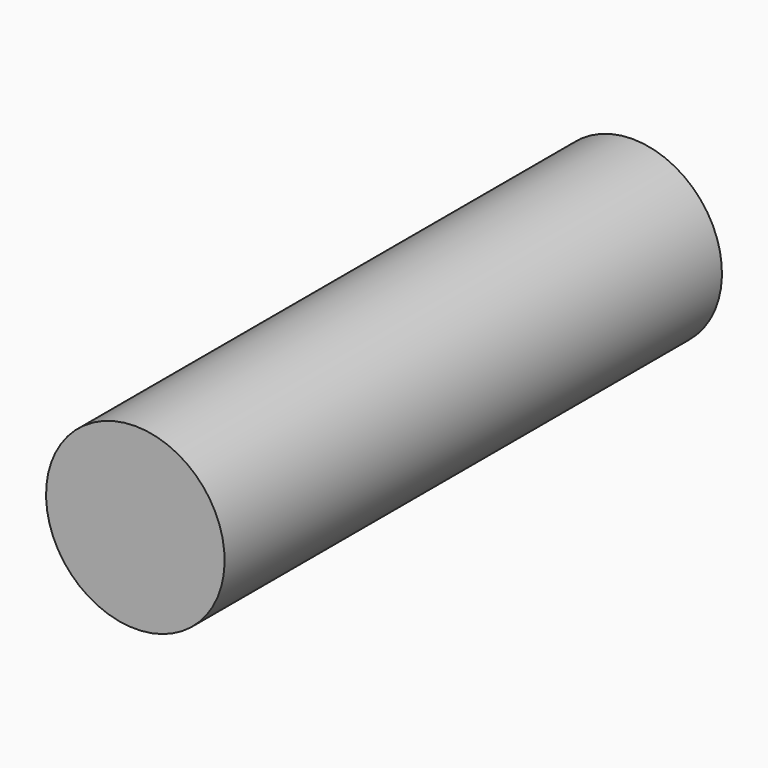
from build123d import *


with BuildPart() as f1:
    # F0 (on Right) → F1 (revolve)
    with BuildSketch(Plane.YZ):
        Polygon((-71.737206, -0.054335), (-67.344068, -0.054335), (-67.344068, 1.073347), (23.713754, 13.653703), (-71.737206, 13.653703), align=None)
    revolve(axis=Axis((0, -69.540637, -0.054335), (0, -1, 0)))


solid = f1.part
